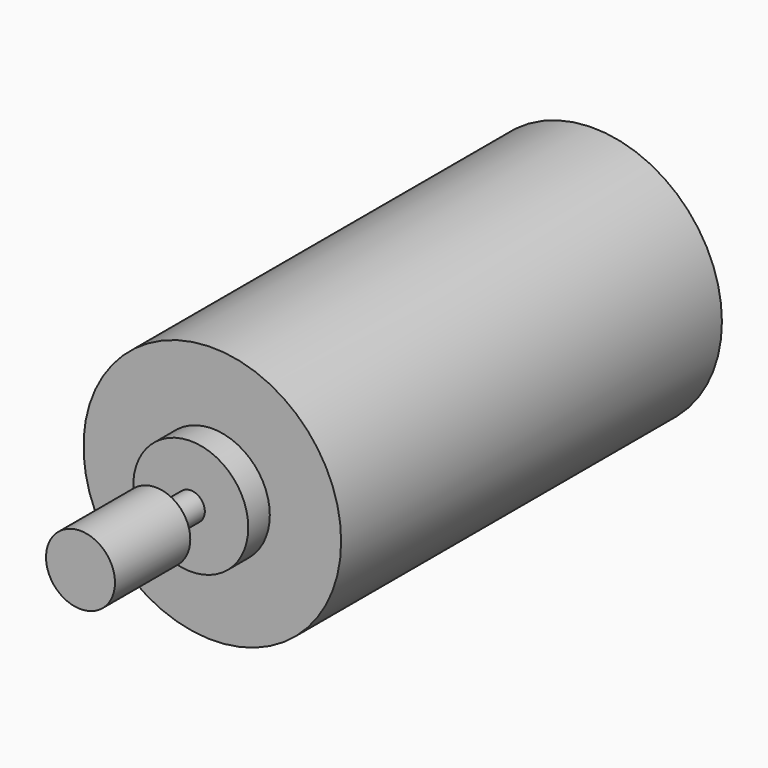
from build123d import *

# Parameters (mm, degrees)
F0_R     = 14.345
F1_DEPTH = 53
F2_R     = 6.4
F3_DEPTH = 3
F4_R     = 1.565
F5_DEPTH = 15.35
F6_R     = 3.84
F6_R_2   = 1.565
F7_DEPTH = 10.48


with BuildPart() as f1:
    # F0 (on Front) → F1 (new body)
    with BuildSketch(Plane.XZ):
        Circle(F0_R)
    extrude(amount=F1_DEPTH)

    # F2 (on face) → F3 (join)
    with BuildSketch(Plane.XZ.offset(53)):
        Circle(F2_R)
    extrude(amount=F3_DEPTH)

    # F4 (on face) → F5 (join)
    with BuildSketch(Plane.XZ.offset(56)):
        Circle(F4_R)
    extrude(amount=F5_DEPTH)

    # F6 (on face) → F7 (join)
    with BuildSketch(Plane.XZ.offset(71.35)):
        Circle(F6_R)
        Circle(F6_R_2, mode=Mode.SUBTRACT)
    extrude(amount=-F7_DEPTH)


solid = f1.part
